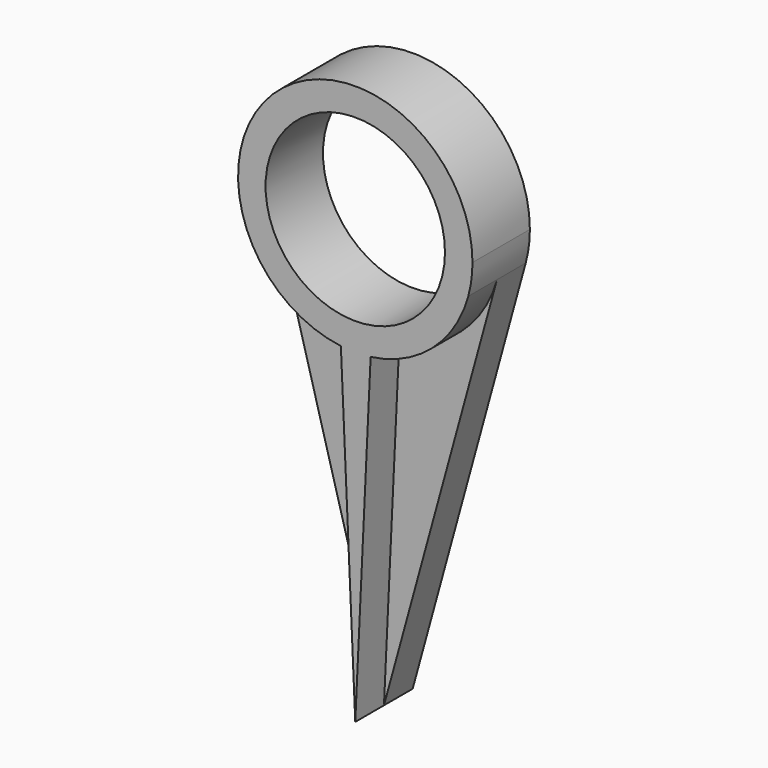
from build123d import *

# Parameters (mm, degrees)
F0_R     = 31.75
F1_DEPTH = 25.4
F2_DEPTH = 12.7
F4_DEPTH = 25.4


with BuildPart() as f1:
    # F0 (on Front) → F1 (new body)
    with BuildSketch(Plane.XZ):
        with BuildLine():
            ThreePointArc((40.001993, -10.986297), (41.111251, -5.542851), (41.483227, 0))
            ThreePointArc((41.483227, 0), (-5.542851, 41.111251), (-40.001993, -10.986297))
            ThreePointArc((-40.001993, -10.986297), (0, -41.483227), (40.001993, -10.986297))
        make_face()
        Circle(F0_R, mode=Mode.SUBTRACT)
    extrude(amount=F1_DEPTH)

    # F0 (on Front) → F2 (join)
    with BuildSketch(Plane.XZ):
        with BuildLine():
            ThreePointArc((40.001993, -10.986297), (41.111251, -5.542851), (41.483227, 0))
            ThreePointArc((41.483227, 0), (-5.542851, 41.111251), (-40.001993, -10.986297))
            ThreePointArc((-40.001993, -10.986297), (0, -41.483227), (40.001993, -10.986297))
        make_face()
        Circle(F0_R, mode=Mode.SUBTRACT)
        with BuildLine():
            ThreePointArc((40.001993, -10.986297), (0, -41.483227), (-40.001993, -10.986297))
            Line((-40.001993, -10.986297), (0, -156.636773))
            Line((0, -156.636773), (40.001993, -10.986297))
        make_face()
    extrude(amount=F2_DEPTH)

    # F3 (on face) → F4 (join)
    with BuildSketch(Plane(origin=(0, 0, 0), x_dir=(-1, 0, 0), z_dir=(0, 1, 0))):
        Polygon((5.272433, -37.112545), (-5.63112, -37.112545), (0, -156.636773), align=None)
    extrude(amount=-F4_DEPTH)


solid = f1.part
